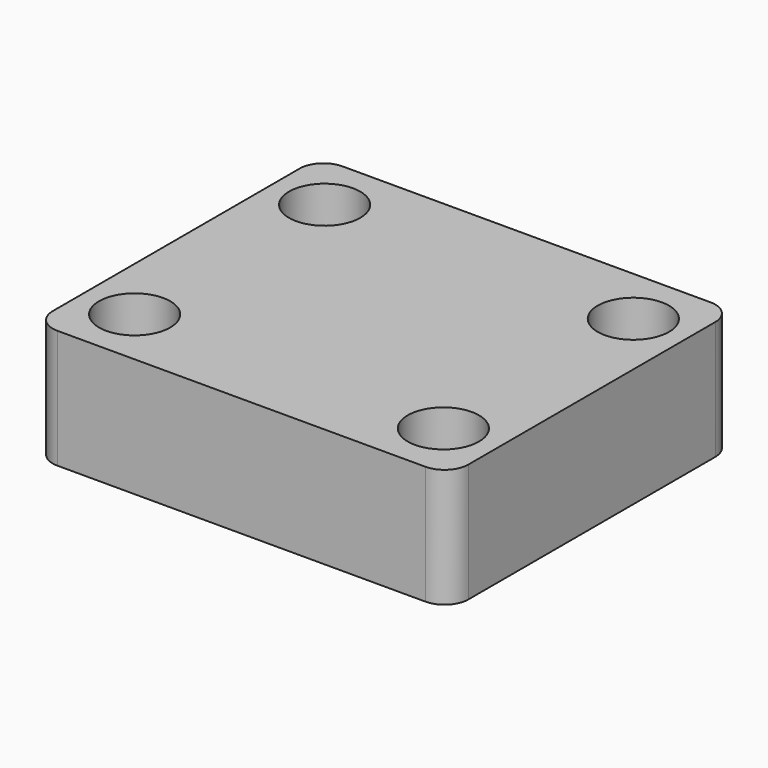
from build123d import *

# Parameters (mm, degrees)
SKETCH_W  = 35
SKETCH_H  = 30
SKETCH_R  = 3
PAD_DEPTH = 10
FILLET_R  = 2


with BuildPart() as part:
    # Sketch → Pad (new body)
    with BuildSketch(Plane.XY):
        Rectangle(SKETCH_W, SKETCH_H)
        with Locations((-13, 10)):
            Circle(SKETCH_R, mode=Mode.SUBTRACT)
        with Locations((13, 10)):
            Circle(SKETCH_R, mode=Mode.SUBTRACT)
        with Locations((13, -10)):
            Circle(SKETCH_R, mode=Mode.SUBTRACT)
        with Locations((-13, -10)):
            Circle(SKETCH_R, mode=Mode.SUBTRACT)
    extrude(amount=PAD_DEPTH)

    # Fillet
    fillet_edges = [part.edges().sort_by_distance(p)[0] for p in [
        (-17.5, -15, 5),
        (17.5, -15, 5),
        (17.5, 15, 5),
        (-17.5, 15, 5),
    ]]
    fillet(fillet_edges, radius=FILLET_R)


solid = part.part
